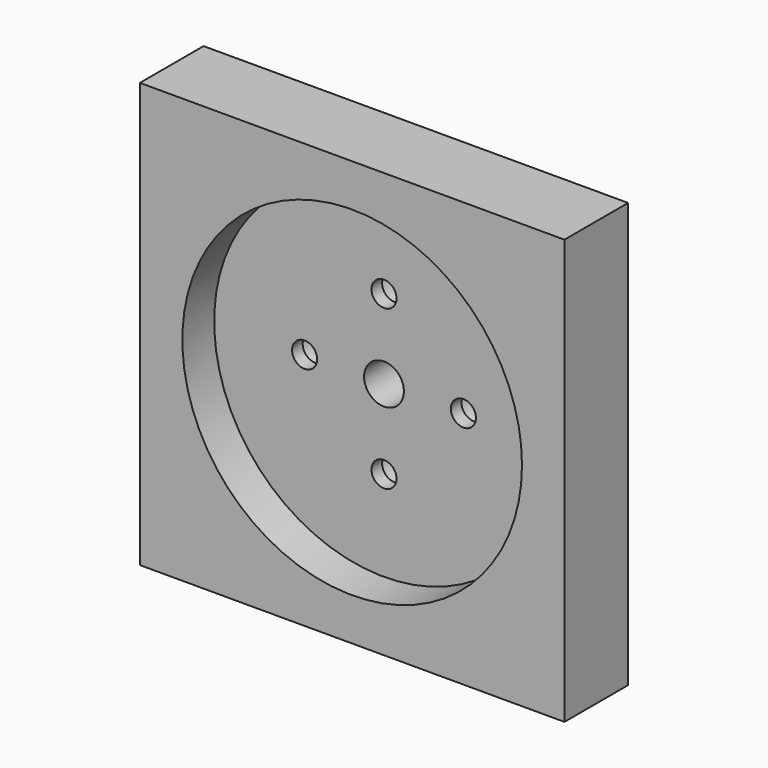
from build123d import *

# Parameters (mm, degrees)
F0_W           = 50.8
F0_H           = 50.8
F1_DEPTH       = 9.525
F3_D           = 3.96875
F3_DEPTH       = 12.7
F3_TIP         = 1.1923327909
F4_D           = 3
F4_CBORE_D     = 4.7625
F4_CBORE_DEPTH = 3.175
F5_D           = 4.7625
F5_DEPTH       = 12.7
F5_TIP         = 1.4307993491
F6_R           = 20.32
F6_R_2         = 1.5
F6_R_3         = 2.38125
F7_DEPTH       = 4.7625


with BuildPart() as f1:
    # F0 (on Front) → F1 (new body)
    with BuildSketch(Plane.XZ):
        with Locations((25.4, 25.4)):
            Rectangle(F0_W, F0_H)
    extrude(amount=F1_DEPTH)

    # F3
    with Locations(Plane(origin=(0, 0, 0), x_dir=(0, -1, 0), z_dir=(-1, 0, 0))):
        with Locations((4.7625, 44.45), (4.7625, 6.35)):
            Hole(F3_D / 2, depth=F3_DEPTH)
            with Locations((0, 0, -(F3_DEPTH + F3_TIP / 2))):  # 118° drill point
                Cone(0, F3_D / 2, F3_TIP, mode=Mode.SUBTRACT)

    # F4 (through all)
    with Locations(Plane(origin=(0, 0, 0), x_dir=(1, 0, 0), z_dir=(0, 1, 0))):
        with Locations((25.4, -34.9), (15.9, -25.4), (25.4, -15.9), (34.9, -25.4)):
            CounterBoreHole(F4_D / 2, F4_CBORE_D / 2, F4_CBORE_DEPTH)

    # F5
    with Locations(Plane(origin=(0, 0, 0), x_dir=(1, 0, 0), z_dir=(0, 1, 0))):
        with Locations((25.4, -25.4)):
            Hole(F5_D / 2, depth=F5_DEPTH)
            with Locations((0, 0, -(F5_DEPTH + F5_TIP / 2))):  # 118° drill point
                Cone(0, F5_D / 2, F5_TIP, mode=Mode.SUBTRACT)

    # F6 (on face) → F7 (cut)
    with BuildSketch(Plane.XZ.offset(9.525)):
        with Locations((25.4, 25.4)):
            Circle(F6_R)
        with Locations((25.4, 15.9)):
            Circle(F6_R_2, mode=Mode.SUBTRACT)
        with Locations((15.9, 25.4)):
            Circle(F6_R_2, mode=Mode.SUBTRACT)
        with Locations((25.4, 25.4)):
            Circle(F6_R_3, mode=Mode.SUBTRACT)
        with Locations((34.9, 25.4)):
            Circle(F6_R_2, mode=Mode.SUBTRACT)
        with Locations((25.4, 34.9)):
            Circle(F6_R_2, mode=Mode.SUBTRACT)
    extrude(amount=-F7_DEPTH, mode=Mode.SUBTRACT)


solid = f1.part
